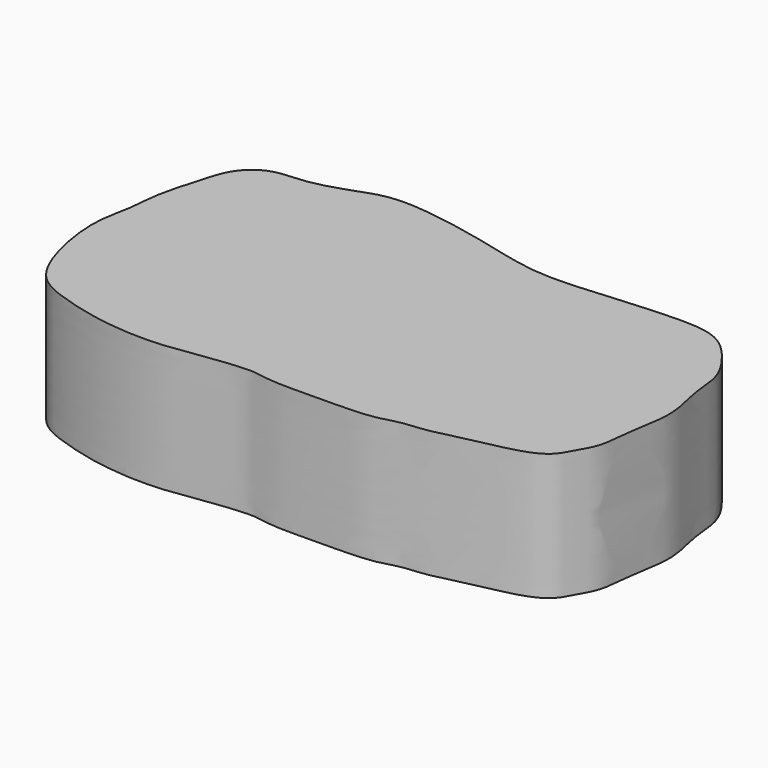
from build123d import *

# Parameters (mm, degrees)
F1_DEPTH = 17


with BuildPart() as f1:
    # F0 (on Top) → F1 (new body)
    with BuildSketch(Plane.XY):
        with BuildLine():
            add(Edge.make_bspline(
                [(-39.035204798, 0), (-38.8455173747, 1.2766076891), (-38.8407940286, 3.9961035803), (-37.0955217777, 9.861015338), (-36.0732958047, 13.4960799804), (-32.8205877368, 16.2015764424), (-28.4866422228, 15.9131493002), (-23.1967835976, 17.6172566212), (-19.3502833062, 19.1764355158), (-13.1493301382, 18.803455113), (-4.4566336598, 17.0138522909), (3.3931176628, 14.7491200613), (12.8810959539, 15.6871455514), (20.8193099458, 16.2442472503), (27.1493870185, 16.0601950477), (30.6782633841, 12.1358633886), (32.9736682784, 8.5695632547), (33.0430922147, 4.4712690114), (34.0253968883, 1.0054978771), (34.3048714399, -2.1277001136), (33.3275900336, -6.8823962556), (33.1361156429, -11.1728749951), (31.6445701858, -13.5203181316), (30.2537392199, -16.583863324), (25.1019275231, -18.035467605), (20.7836478454, -18.7947570422), (16.5269639877, -20.031695891), (13.4035690352, -20.0536567854), (10.2882755629, -21.2670544902), (3.7344039635, -21.237292989), (-3.4977240412, -21.4158565378), (-5.7564498895, -20.5623518823), (-12.6388362608, -21.4223868575), (-18.3820506677, -22.378968295), (-25.4096204895, -21.897395435), (-31.4266090688, -20.3050907038), (-36.2108379271, -18.4056327496), (-38.9515948688, -12.7854821641), (-40.2267500523, -4.7374277296), (-39.2409148305, -1.3844408063), (-39.035204798, 0)],
                knots=[0, 0, 0, 0, 0.0234009527, 0.0521232706, 0.0749222917, 0.0973841597, 0.1215042874, 0.1488170538, 0.1724037615, 0.2009676417, 0.2358894711, 0.2694233904, 0.3052419751, 0.3386149301, 0.3670396033, 0.392931202, 0.4167566055, 0.4400921395, 0.4620366792, 0.4825880427, 0.5084112525, 0.5325099482, 0.5515883813, 0.5721109971, 0.5983408955, 0.6234896609, 0.6478245567, 0.6680632949, 0.6887653387, 0.7192279394, 0.7502572168, 0.7684146693, 0.7981930733, 0.827287658, 0.8579940128, 0.8872664578, 0.9127594296, 0.9413136243, 0.9746224043, 1, 1, 1, 1], degree=3))
        make_face()
    extrude(amount=F1_DEPTH)


solid = f1.part
